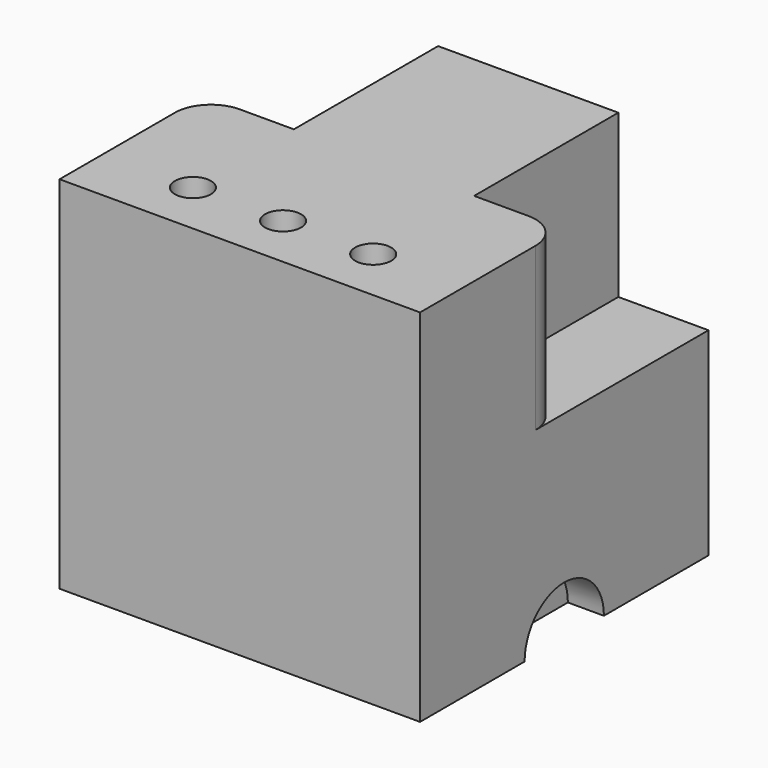
from build123d import *

# Parameters (mm, degrees)
F0_W     = 100
F0_H     = 100
F1_DEPTH = 100
F3_DEPTH = 10
F5_DEPTH = 45
F6_R     = 5
F7_DEPTH = 100.001
F8_W     = 10
F8_H     = 10
F9_DEPTH = 25


with BuildPart() as f1:
    # F0 (on Right) → F1 (new body)
    with BuildSketch(Plane.YZ):
        with Locations((50, 50)):
            Rectangle(F0_W, F0_H)
    extrude(amount=F1_DEPTH)

    # F2 (on face) → F3 (cut)
    with BuildSketch(Plane.YZ.offset(100)):
        with BuildLine():
            Line((36.25, 0), (63.75, 0))
            ThreePointArc((63.75, 0), (50, 13.75), (36.25, 0))
        make_face()
    extrude(amount=-F3_DEPTH, mode=Mode.SUBTRACT)

    # F4 (on face) → F5 (cut)
    with BuildSketch(Plane.XY.offset(100)):
        with BuildLine():
            Line((25, 50), (25, 100))
            Line((25, 100), (0, 100))
            Line((0, 100), (0, 40))
            ThreePointArc((0, 40), (2.928932, 47.071068), (10, 50))
            Line((10, 50), (25, 50))
        make_face()
        with BuildLine():
            Line((100, 100), (75, 100))
            Line((75, 100), (75, 50))
            Line((75, 50), (90, 50))
            ThreePointArc((90, 50), (97.071068, 47.071068), (100, 40))
            Line((100, 40), (100, 100))
        make_face()
    extrude(amount=-F5_DEPTH, mode=Mode.SUBTRACT)

    # F6 (on face) → F7 (cut, through all)
    with BuildSketch(Plane.XY.offset(100)):
        with Locations((25, 15)):
            Circle(F6_R)
        with Locations((75, 15)):
            Circle(F6_R)
        with Locations((50, 15)):
            Circle(F6_R)
    extrude(amount=-F7_DEPTH, mode=Mode.SUBTRACT)

    # F8 (on face) → F9 (cut)
    with BuildSketch(Plane(origin=(0, 100, 0), x_dir=(-1, 0, 0), z_dir=(0, 1, 0))):
        with Locations((-75, 20)):
            Rectangle(F8_W, F8_H)
        with Locations((-50, 20)):
            Rectangle(F8_W, F8_H)
        with Locations((-25, 20)):
            Rectangle(F8_W, F8_H)
    extrude(amount=-F9_DEPTH, mode=Mode.SUBTRACT)


solid = f1.part
